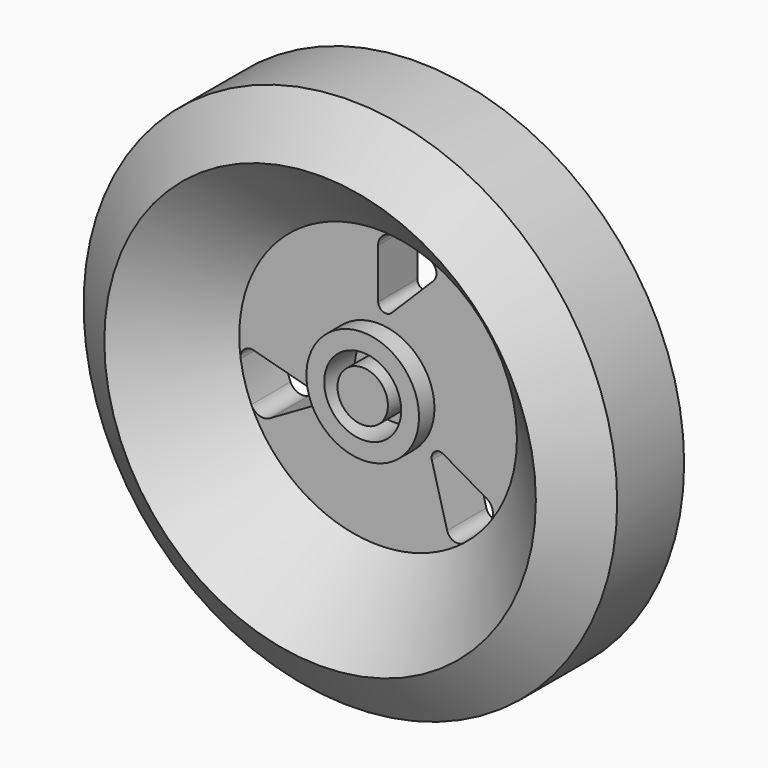
from build123d import *

# Parameters (mm, degrees)
F0_W     = 113.5605871677
F0_H     = 73.2877403498
F1_DEPTH = 254
F2_T     = -0.254
F7_DEPTH = 23.6716698855


with BuildPart() as f1:
    # F0 (on Top) → F1 (new body)
    with BuildSketch(Plane.XY):
        with Locations((-56.7802935839, 36.6438701749)):
            Rectangle(F0_W, F0_H)
    extrude(amount=F1_DEPTH)

    # F2
    f2_openings = [f1.faces().sort_by_distance(p)[0] for p in [
        (0, 36.64387, 127),
    ]]
    offset(amount=F2_T, openings=f2_openings)


with BuildPart() as f5:
    # F4 (on Top) → F5 (revolve)
    with BuildSketch(Plane.XY):
        Polygon((128.8485527039, 0), (0, 0), (0, -32.9870469868), (12.1806450188, -32.9870469868), (12.1806450188, -14.4056975842), (18.5923762619, -14.4056975842), (18.5923762619, -32.9870469868), (27.2095799446, -32.9870469868), (27.2095799446, -23.6716698855), (67.0536756516, -23.6716698855), (104.2113080621, -58.7185546756), (128.8485527039, -40.4047630727), align=None)
    revolve(axis=Axis((0, -16.4935234934, 0), (0, 1, 0)))

    # F6 (on face) → F7 (cut, through all)
    with BuildSketch(Plane.XZ.offset(23.6716698855)):
        with BuildLine():
            ThreePointArc((26.7019728343, 53.911552779), (28.0869530427, 58.521028427), (25.0041931016, 62.2172463688))
            ThreePointArc((25.0041931016, 62.2172463688), (16.1643801545, 65.0761725411), (7.0142513747, 66.6857983085))
            ThreePointArc((7.0142513747, 66.6857983085), (2.1012058316, 65.0897727595), (0, 60.3706363857))
            Line((0, 60.3706363857), (0, 36.4077336173))
            ThreePointArc((0, 36.4077336173), (2.3519761227, 32.8877525984), (6.5040768363, 33.7136567809))
            Line((6.5040768363, 33.7136567809), (26.7019728343, 53.911552779))
        make_face()
        with BuildLine():
            ThreePointArc((41.3796193581, -52.7628896115), (48.2754285244, -46.5368501208), (54.2444697194, -39.4174190332))
            ThreePointArc((54.2444697194, -39.4174190332), (55.3187938204, -34.3645840085), (52.2825047526, -30.1853181928))
            Line((52.2825047526, -30.1853181928), (31.5300222068, -18.2038668086))
            ThreePointArc((31.5300222068, -18.2038668086), (27.3056411622, -18.4807473705), (25.9448448086, -22.4895241589))
            Line((25.9448448086, -22.4895241589), (33.3377878469, -50.0803631952))
            ThreePointArc((33.3377878469, -50.0803631952), (36.6372207521, -53.5845290634), (41.3796193581, -52.7628896115))
        make_face()
        with BuildLine():
            ThreePointArc((-60.0397606812, -3.8311895838), (-64.7241737948, -4.9364993636), (-66.3838124597, -9.4543567573))
            ThreePointArc((-66.3838124597, -9.4543567573), (-64.4398086789, -18.5393224203), (-61.2587210941, -27.2683792752))
            ThreePointArc((-61.2587210941, -27.2683792752), (-57.4199996521, -30.725188751), (-52.2825047526, -30.1853181928))
            Line((-52.2825047526, -30.1853181928), (-31.5300222068, -18.2038668086))
            ThreePointArc((-31.5300222068, -18.2038668086), (-29.6576172849, -14.4070052278), (-32.4489216449, -11.224132622))
            Line((-32.4489216449, -11.224132622), (-60.0397606812, -3.8311895838))
        make_face()
    extrude(amount=-F7_DEPTH, mode=Mode.SUBTRACT)


solid = f5.part
